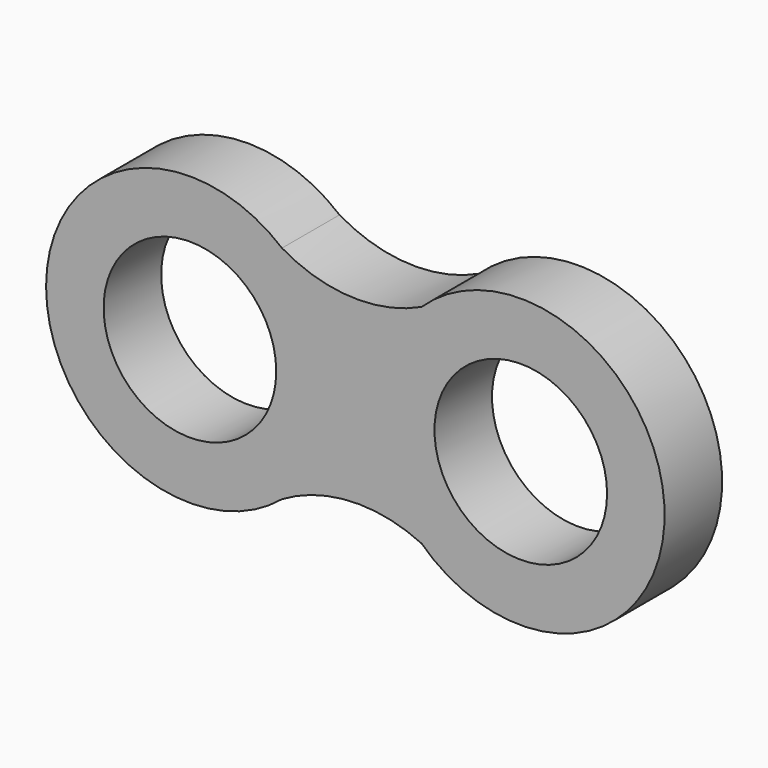
from build123d import *

# Parameters (mm, degrees)
F0_R     = 5
F0_R_2   = 3
F1_DEPTH = 2.5
F2_R     = 5
F2_R_2   = 3
F3_DEPTH = 2.5
F5_DEPTH = 2.5


with BuildPart() as f1:
    # F0 (on Front) → F1 (new body)
    with BuildSketch(Plane.XZ):
        Circle(F0_R)
        Circle(F0_R_2, mode=Mode.SUBTRACT)
    extrude(amount=F1_DEPTH)



with BuildPart() as f3:
    # F2 (on Front) → F3 (new body)
    with BuildSketch(Plane.XZ):
        with Locations((11.5, 0)):
            Circle(F2_R)
        with Locations((11.5, 0)):
            Circle(F2_R_2, mode=Mode.SUBTRACT)
    extrude(amount=F3_DEPTH)


with BuildPart() as f1_1:
    add(f1.part)

    add(f3.part)  # F5 merges F3
    # F4 (on face) → F5 (join)
    with BuildSketch(Plane.XZ.offset(2.5)):
        with BuildLine():
            ThreePointArc((8.4708627887, 3.8414155761), (5.8357068684, 3.1228084753), (3.2005509482, 3.8414155761))
            ThreePointArc((3.2005509482, 3.8414155761), (5, 0), (3.2005509482, -3.8414155761))
            ThreePointArc((3.2005509482, -3.8414155761), (5.8357068684, -3.1228084753), (8.4708627887, -3.8414155761))
            ThreePointArc((8.4708627887, -3.8414155761), (6.6079507491, 0), (8.4708627887, 3.8414155761))
        make_face()
    extrude(amount=-F5_DEPTH)


solid = f1_1.part
